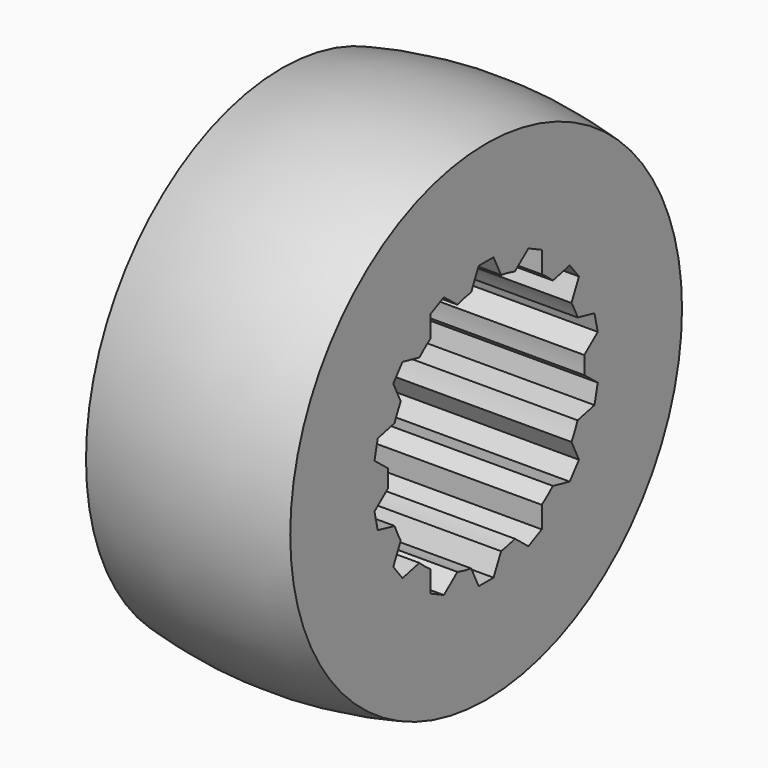
from build123d import *

# Parameters (mm, degrees)
F3_DEPTH = 18.1


with BuildPart() as f1:
    # F0 (on Front) → F1 (revolve)
    with BuildSketch(Plane.XZ):
        with BuildLine():
            Line((0, 21.7), (0, 10.9))
            Line((0, 10.9), (18.1, 10.9))
            Line((18.1, 10.9), (18.1, 21.7))
            ThreePointArc((18.1, 21.7), (9.05, 22.75), (0, 21.7))
        make_face()
    revolve(axis=Axis((10.226779, 0, 0), (1, 0, 0)))

    # F2 (on face) → F3 (cut, through all)
    with BuildSketch(Plane.YZ.offset(18.1)):
        Polygon((1.654276, 10.773735), (0.822951, 12.5), (-0.822951, 12.5), (-1.654276, 10.773735), align=None)
        Polygon((-3.184097, 10.424564), (-4.682093, 11.619176), (-6.165, 10.905046), (-6.165, 8.989036), align=None)
        Polygon((-7.391821, 8.010679), (-9.259792, 8.437032), (-10.285995, 7.150213), (-9.45467, 5.423949), align=None)
        Polygon((-10.135504, 4.010182), (-12.003475, 3.58383), (-12.369723, 1.979194), (-10.871726, 0.784581), align=None)
        Polygon((-10.871726, -0.784581), (-12.369723, -1.979194), (-12.003475, -3.58383), (-10.135504, -4.010182), align=None)
        Polygon((-9.45467, -5.423949), (-10.285995, -7.150213), (-9.259792, -8.437032), (-7.391821, -8.010679), align=None)
        Polygon((-6.165, -8.989036), (-6.165, -10.905046), (-4.682093, -11.619176), (-3.184097, -10.424564), align=None)
        Polygon((-1.654276, -10.773735), (-0.822951, -12.5), (0.822951, -12.5), (1.654276, -10.773735), align=None)
        Polygon((3.184097, -10.424564), (4.682093, -11.619176), (6.165, -10.905046), (6.165, -8.989036), align=None)
        Polygon((7.391821, -8.010679), (9.259792, -8.437032), (10.285995, -7.150213), (9.45467, -5.423949), align=None)
        Polygon((10.135504, -4.010182), (12.003475, -3.58383), (12.369723, -1.979194), (10.871726, -0.784581), align=None)
        Polygon((10.871726, 0.784581), (12.369723, 1.979194), (12.003475, 3.58383), (10.135504, 4.010182), align=None)
        Polygon((9.45467, 5.423949), (10.285995, 7.150213), (9.259792, 8.437032), (7.391821, 8.010679), align=None)
        Polygon((6.165, 8.989036), (6.165, 10.905046), (4.682093, 11.619176), (3.184097, 10.424564), align=None)
    extrude(amount=-F3_DEPTH, mode=Mode.SUBTRACT)


solid = f1.part
